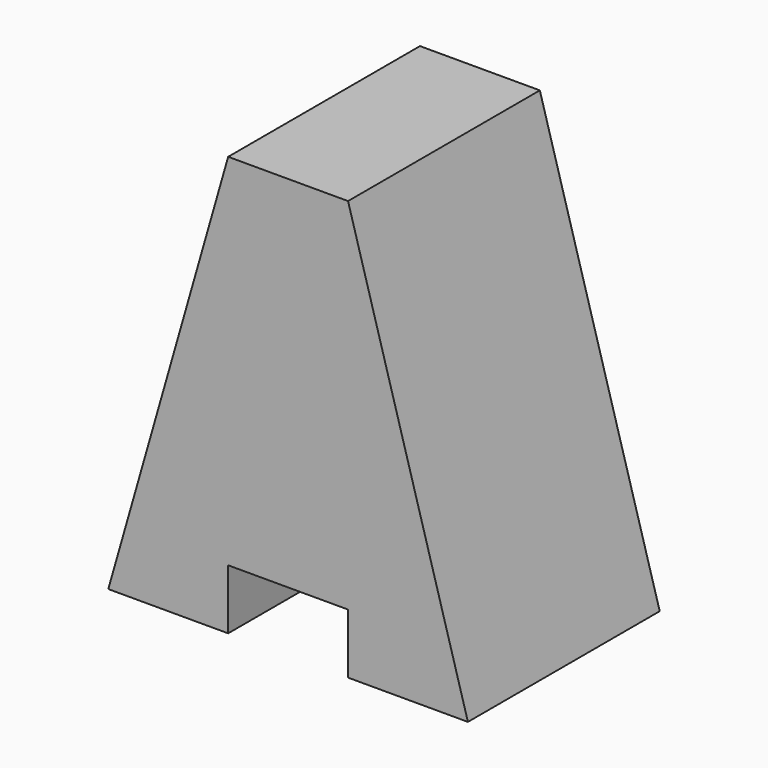
from build123d import *

# Parameters (mm, degrees)
F0_W     = 38.1
F0_H     = 44.45
F1_DEPTH = 25.4
F2_W     = 12.7
F2_H     = 6.35
F3_DEPTH = 25.4
F5_DEPTH = 25.4
F6_DEPTH = 25.4
F8_DEPTH = 25.4


with BuildPart() as f1:
    # F0 (on Front) → F1 (new body)
    with BuildSketch(Plane.XZ):
        with Locations((19.05, 22.225)):
            Rectangle(F0_W, F0_H)
    extrude(amount=F1_DEPTH)

    # F2 (on face) → F3 (cut)
    with BuildSketch(Plane.XZ.offset(25.4)):
        with Locations((19.05, 3.175)):
            Rectangle(F2_W, F2_H)
    extrude(amount=-F3_DEPTH, mode=Mode.SUBTRACT)

    # F4 (on face) → F5 (cut)
    with BuildSketch(Plane.XZ.offset(25.4)):
        Polygon((38.1, 44.45), (25.4, 44.45), (38.1, 0), align=None)
    extrude(amount=-F5_DEPTH, mode=Mode.SUBTRACT)

    # F4 (on face) → F6 (cut)
    with BuildSketch(Plane.XZ.offset(25.4)):
        Polygon((38.1, 44.45), (25.4, 44.45), (38.1, 0), align=None)
    extrude(amount=-F6_DEPTH, mode=Mode.SUBTRACT)

    # F7 (on face) → F8 (cut)
    with BuildSketch(Plane.XZ.offset(25.4)):
        Polygon((0, 0), (12.7, 44.45), (0, 44.45), align=None)
    extrude(amount=-F8_DEPTH, mode=Mode.SUBTRACT)


solid = f1.part
